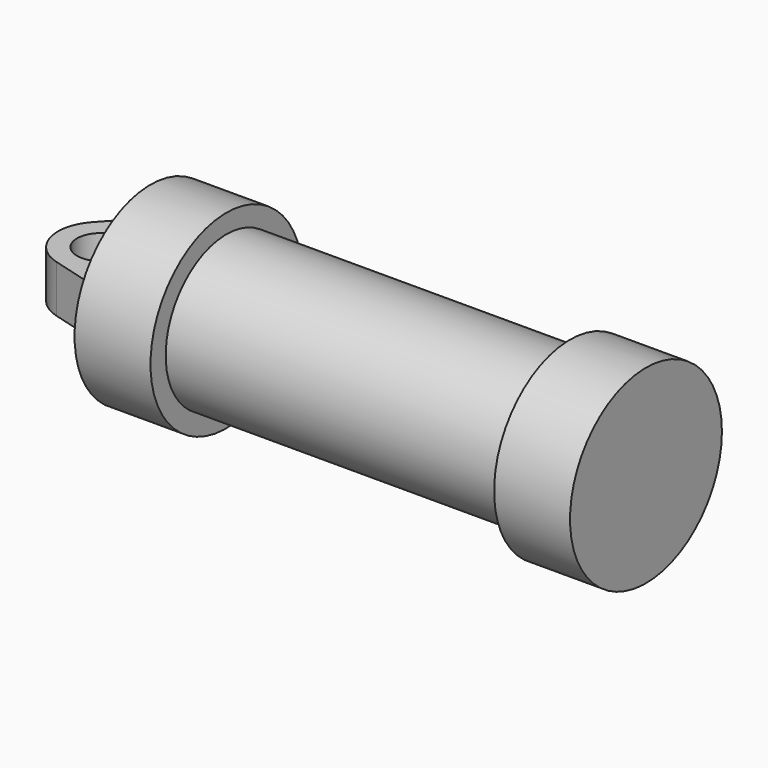
from build123d import *

# Parameters (mm, degrees)
F0_W     = 5.842
F0_H     = 12.7
F0_R     = 3.175
F2_DEPTH = 3.175


with BuildPart() as f1:
    # F0 (on Top) → F1 (revolve)
    with BuildSketch(Plane.XY):
        Polygon((-22.432768, 7.493692), (-22.432768, -5.206308), (38.019232, -5.206308), (38.019232, 7.493692), (27.859232, 7.493692), (27.859232, 4.953692), (-18.114768, 4.953692), (-18.114768, 7.493692), align=None)
        with Locations((-25.353768, 1.143692)):
            Rectangle(F0_W, F0_H)
    revolve(axis=Axis((4.872232, -5.206308, 0), (-1, 0, 0)))


with BuildPart() as f2:
    # F0 (on Top) → F2 (new body, symmetric)
    with BuildSketch(Plane.XY):
        with BuildLine():
            Line((-29.214568, -5.206308), (-28.274768, -5.206308))
            Line((-28.274768, -5.206308), (-28.274768, 7.493692))
            Line((-28.274768, 7.493692), (-22.432768, 7.493692))
            Line((-22.432768, 7.493692), (-22.432768, 10.033692))
            Line((-22.432768, 10.033692), (-28.782768, 10.033692))
            Line((-28.782768, 10.033692), (-39.155398, -1.358765))
            ThreePointArc((-39.155398, -1.358765), (-32.866729, 0.123412), (-29.214568, -5.206308))
        make_face()
        with BuildLine():
            ThreePointArc((-36.457431, -10.713291), (-31.470559, -9.755647), (-29.214568, -5.206308))
            ThreePointArc((-29.214568, -5.206308), (-32.866729, 0.123412), (-39.155398, -1.358765))
            ThreePointArc((-39.155398, -1.358765), (-40.420746, -6.790035), (-36.457431, -10.713291))
        make_face()
        with Locations((-34.929568, -5.206308)):
            Circle(F0_R, mode=Mode.SUBTRACT)
        with BuildLine():
            Line((-28.274768, -12.983497), (-28.274768, -5.206308))
            Line((-28.274768, -5.206308), (-29.214568, -5.206308))
            ThreePointArc((-29.214568, -5.206308), (-31.470559, -9.755647), (-36.457431, -10.713291))
            Line((-36.457431, -10.713291), (-28.274768, -12.983497))
        make_face()
    extrude(amount=F2_DEPTH, both=True)


solid = Compound([f1.part, f2.part])
